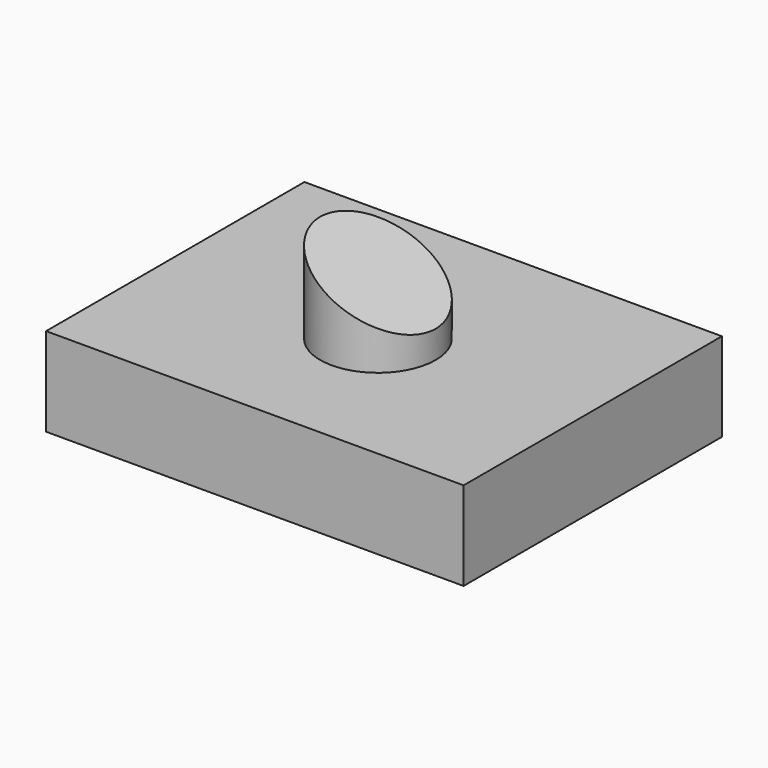
from build123d import *

# Parameters (mm, degrees)
F0_W     = 119.694226
F0_H     = 92.565984
F1_DEPTH = 25.4
F2_R     = 16.550029
F3_DEPTH = 25.4
F5_DEPTH = 92.566984


with BuildPart() as f1:
    # F0 (on Top) → F1 (new body)
    with BuildSketch(Plane.XY):
        with Locations((-0.458248, 2.749484)):
            Rectangle(F0_W, F0_H)
    extrude(amount=F1_DEPTH)

    # F2 (on face) → F3 (join)
    with BuildSketch(Plane.XY.offset(25.4)):
        Circle(F2_R)
    extrude(amount=F3_DEPTH)

    # F4 (on face) → F5 (cut, through all)
    with BuildSketch(Plane.XZ.offset(43.533508)):
        Polygon((16.550029, 50.8), (-16.550029, 50.8), (16.550029, 33.268765), align=None)
    extrude(amount=-F5_DEPTH, mode=Mode.SUBTRACT)


solid = f1.part
